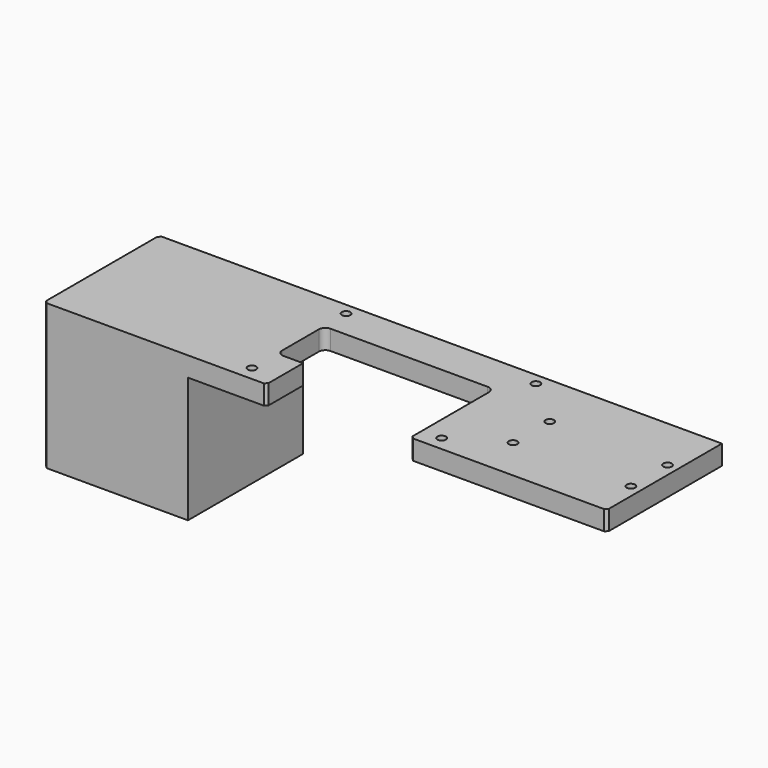
from build123d import *

# Parameters (mm, degrees)
F0_W      = 430
F0_H      = 110
F1_DEPTH  = 15
F2_W      = 130
F2_H      = 45
F3_DEPTH  = 25
F4_W      = 110
F4_H      = 45.9024896845
F5_DEPTH  = 25
F6_R      = 5
F7_SIZE   = 2
F9_DEPTH  = 96
F11_R     = 3.25
F12_DEPTH = 25
F13_R     = 3.25
F14_DEPTH = 25


with BuildPart() as f1:
    # F0 (on Top) → F1 (new body)
    with BuildSketch(Plane.XY):
        with Locations((-163.5564976931, 28.7499989569)):
            Rectangle(F0_W, F0_H)
    extrude(amount=F1_DEPTH)

    # F2 (on Top) → F3 (cut)
    with BuildSketch(Plane.XY):
        with Locations((-163.5564976931, 31.2499989569)):
            Rectangle(F2_W, F2_H)
    extrude(amount=F3_DEPTH, mode=Mode.SUBTRACT)

    # F4 (on Top) → F5 (cut)
    with BuildSketch(Plane.XY):
        with Locations((-153.5564976931, -10.6971156783)):
            Rectangle(F4_W, F4_H)
    extrude(amount=F5_DEPTH, mode=Mode.SUBTRACT)

    # F6
    f6_edges = [f1.edges().sort_by_distance(p)[0] for p in [
        (-228.556498, 53.749999, 7.5),
        (-98.556498, 53.749999, 7.5),
        (-228.556498, 8.749999, 7.5),
    ]]
    fillet(f6_edges, radius=F6_R)

    # F7
    f7_edges = [f1.edges().sort_by_distance(p)[0] for p in [
        (-208.556498, -26.250001, 7.5),
        (-98.556498, -26.250001, 7.5),
        (-378.556498, -26.250001, 7.5),
        (-378.556498, 83.749999, 7.5),
        (51.443502, -26.250001, 7.5),
    ]]
    chamfer(f7_edges, length=F7_SIZE)

    # F8 (on face) → F9 (join)
    with BuildSketch(Plane(origin=(0, 0, 0), x_dir=(1, 0, 0), z_dir=(0, 0, -1))):
        Polygon((-268.5564976931, 26.2500010431), (-376.5564976931, 26.2500010431), (-378.5564976931, 24.2500010431), (-378.5564976931, -81.7499989569), (-376.5564976931, -83.7499989569), (-268.5564976931, -83.7499989569), align=None)
    extrude(amount=F9_DEPTH)

    # F11 (on Top) → F12 (cut)
    with BuildSketch(Plane.XY):
        with Locations((-228.5088598728, -15.1645448059)):
            Circle(F11_R)
        with Locations((-228.553250432, 74.8012885451)):
            Circle(F11_R)
        with Locations((-83.5528895259, 74.8062729836)):
            Circle(F11_R)
        with Locations((-83.5413336754, -15.1974624023)):
            Circle(F11_R)
    extrude(amount=F12_DEPTH, mode=Mode.SUBTRACT)

    # F13 (on Top) → F14 (cut)
    with BuildSketch(Plane.XY):
        with Locations((-46.5564976931, 6.8009085655)):
            Circle(F13_R)
        with Locations((-46.5564976931, 41.8009085655)):
            Circle(F13_R)
        with Locations((43.4435023069, 6.8009085655)):
            Circle(F13_R)
        with Locations((43.4435023069, 41.8009085655)):
            Circle(F13_R)
    extrude(amount=F14_DEPTH, mode=Mode.SUBTRACT)


solid = f1.part
